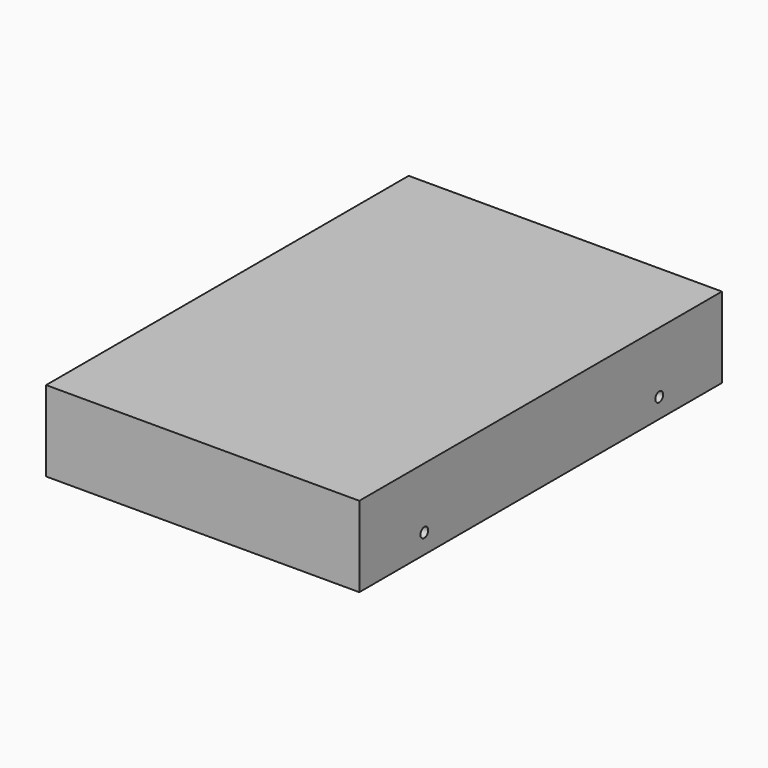
from build123d import *

# Parameters (mm, degrees)
F0_W     = 101.5996952
F0_H     = 146.9995536
F1_DEPTH = 26.0999224
F2_R     = 1.5875
F3_DEPTH = 3.175
F4_R     = 1.5875
F5_DEPTH = 3.175


with BuildPart() as f1:
    # F0 (on Top) → F1 (new body)
    with BuildSketch(Plane.XY):
        with Locations((50.7998476, 73.4997768)):
            Rectangle(F0_W, F0_H)
    extrude(amount=F1_DEPTH)

    # F2 (on face) → F3 (cut)
    with BuildSketch(Plane(origin=(0, 0, 0), x_dir=(0, -1, 0), z_dir=(-1, 0, 0))):
        with Locations((-121.5995536, 6.35)):
            Circle(F2_R)
        with Locations((-26.3495536, 6.35)):
            Circle(F2_R)
    extrude(amount=-F3_DEPTH, mode=Mode.SUBTRACT)

    # F4 (on face) → F5 (cut)
    with BuildSketch(Plane.YZ.offset(101.5996952)):
        with Locations((26.3495536, 6.35)):
            Circle(F4_R)
        with Locations((121.5995536, 6.35)):
            Circle(F4_R)
    extrude(amount=-F5_DEPTH, mode=Mode.SUBTRACT)


solid = f1.part
